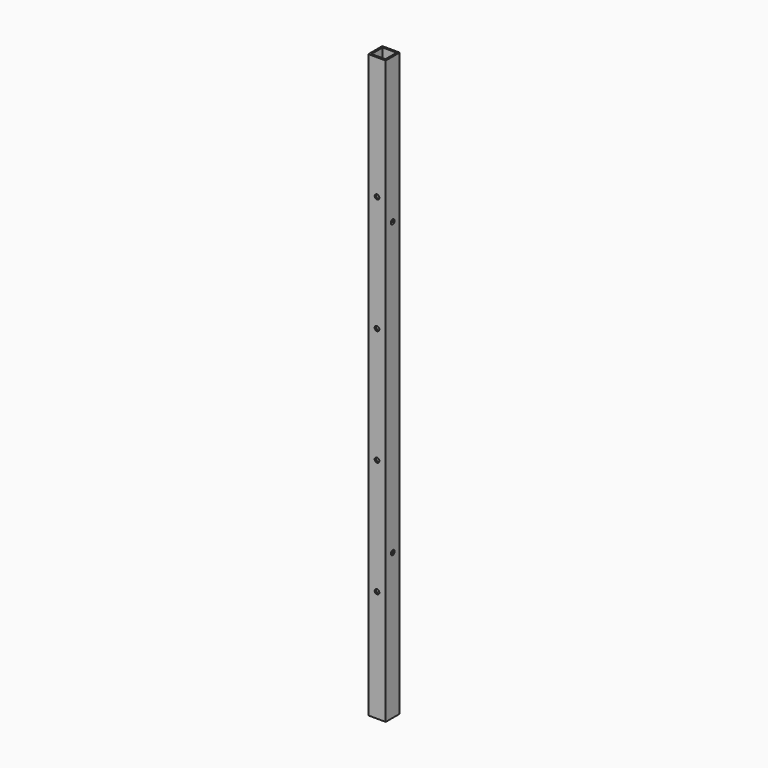
from build123d import *

# Parameters (mm, degrees)
SKETCH_W        = 15
SKETCH_H        = 15
SKETCH_W_2      = 12
SKETCH_H_2      = 12
PAD_DEPTH       = 500
SKETCH001_R     = 2
POCKET_DEPTH    = 5
SKETCH002_R     = 2
POCKET001_DEPTH = 30


with BuildPart() as part:
    # Sketch → Pad (new body)
    with BuildSketch(Plane.XY):
        Rectangle(SKETCH_W, SKETCH_H)
        Rectangle(SKETCH_W_2, SKETCH_H_2, mode=Mode.SUBTRACT)
    extrude(amount=PAD_DEPTH)

    # Sketch001 → Pocket (cut)
    with BuildSketch(Plane.XZ.offset(7.5)):
        with Locations((0, 195.4891)):
            Circle(SKETCH001_R)
        with Locations((0, 96)):
            Circle(SKETCH001_R)
        with Locations((0, 294.9782)):
            Circle(SKETCH001_R)
        with Locations((0, 394.4673)):
            Circle(SKETCH001_R)
    extrude(amount=-POCKET_DEPTH, mode=Mode.SUBTRACT)

    # Sketch002 → Pocket001 (cut)
    with BuildSketch(Plane(origin=(-7.5, 0, 0), x_dir=(0, -1, 0), z_dir=(-1, 0, 0))):
        with Locations((0, 375)):
            Circle(SKETCH002_R)
        with Locations((0, 125)):
            Circle(SKETCH002_R)
    extrude(amount=-POCKET001_DEPTH, mode=Mode.SUBTRACT)


solid = part.part
